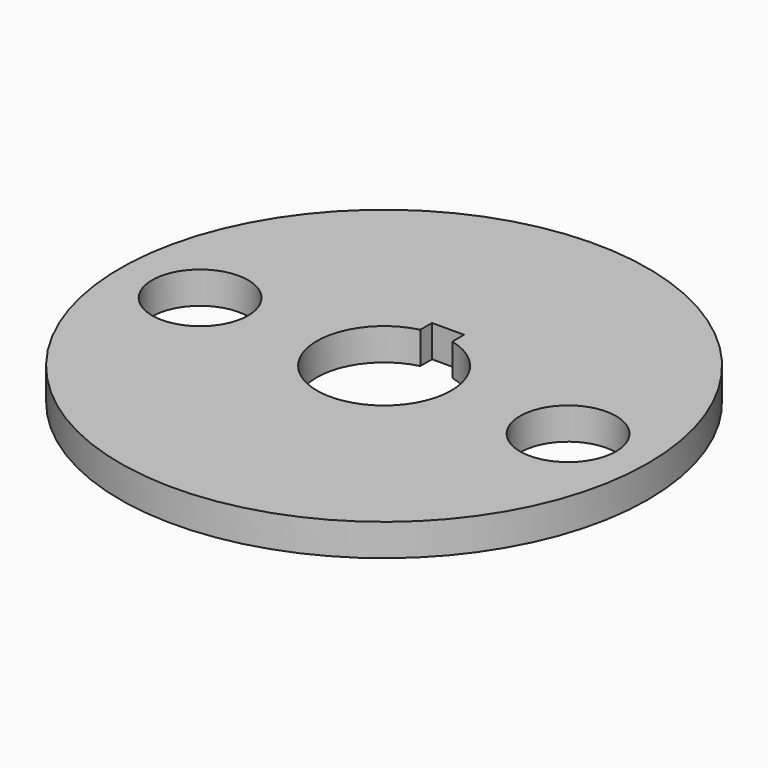
from build123d import *

# Parameters (mm, degrees)
SKETCH_R     = 16.5
SKETCH_R_2   = 3
SKETCH_R_3   = 4.2
PAD_DEPTH    = 2
SKETCH001_W  = 2
SKETCH001_H  = 2
POCKET_DEPTH = 2.001


with BuildPart() as part:
    # Sketch → Pad (new body)
    with BuildSketch(Plane.XY):
        Circle(SKETCH_R)
        with Locations((-11.5, 0)):
            Circle(SKETCH_R_2, mode=Mode.SUBTRACT)
        with Locations((11.5, 0)):
            Circle(SKETCH_R_2, mode=Mode.SUBTRACT)
        Circle(SKETCH_R_3, mode=Mode.SUBTRACT)
    extrude(amount=PAD_DEPTH)

    # Sketch001 → Pocket (cut, through all)
    with BuildSketch(Plane.XY.offset(2)):
        with Locations((0, 4)):
            Rectangle(SKETCH001_W, SKETCH001_H)
    extrude(amount=-POCKET_DEPTH, mode=Mode.SUBTRACT)


solid = part.part
